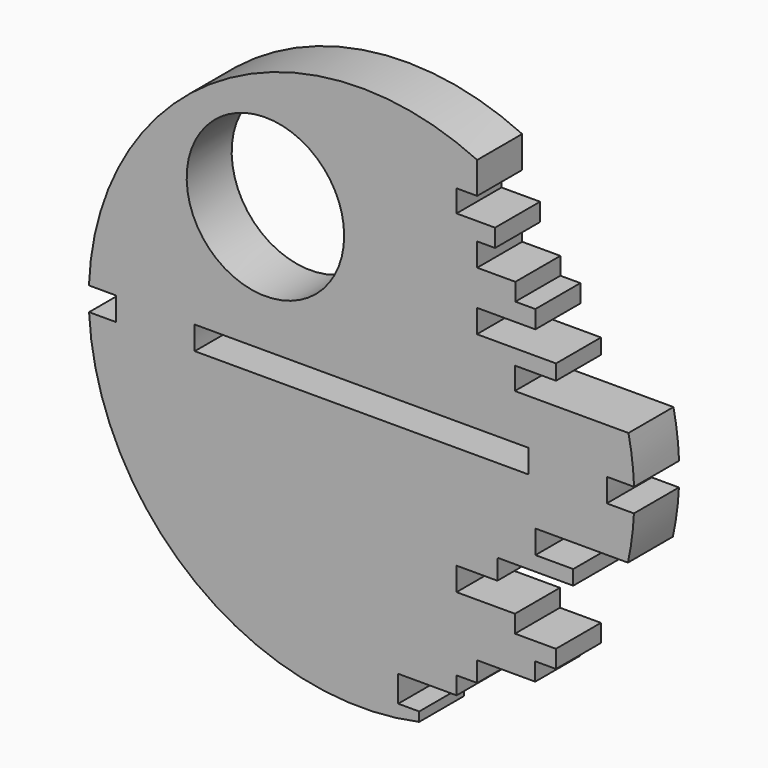
from build123d import *

# Parameters (mm, degrees)
F1_DEPTH = 5


with BuildPart() as f1:
    # F0 (on Front) → F1 (new body)
    with BuildSketch(Plane.XZ):
        with BuildLine():
            Line((-21.807785, -1.172308), (-24.221647, -1.172308))
            ThreePointArc((-24.221647, -1.172308), (-14.764985, -19.236884), (5.130451, -23.701075))
            Line((5.130451, -23.701075), (5.130451, -22.882067))
            Line((5.130451, -22.882067), (3.264538, -22.882067))
            Line((3.264538, -22.882067), (3.264538, -20.541335))
            Line((3.264538, -20.541335), (8.456405, -20.541335))
            Line((8.456405, -20.541335), (8.456405, -18.974984))
            Line((8.456405, -18.974984), (10.286748, -18.974984))
            Line((10.286748, -18.974984), (10.286748, -17.197439))
            Line((10.286748, -17.197439), (15.44636, -17.197439))
            Line((15.44636, -17.197439), (15.44636, -15.602398))
            Line((15.44636, -15.602398), (17.285462, -15.602398))
            Line((17.285462, -15.602398), (17.285462, -14.024785))
            Line((17.285462, -14.024785), (13.642496, -14.024785))
            Line((13.642496, -14.024785), (13.642496, -12.465751))
            Line((13.642496, -12.465751), (8.446803, -12.465751))
            Line((8.446803, -12.465751), (8.446803, -10.388738))
            Line((8.446803, -10.388738), (12.081455, -10.388738))
            Line((12.081455, -10.388738), (12.081455, -8.669803))
            Line((12.081455, -8.669803), (12.081455, -8.58615))
            Line((12.081455, -8.58615), (12.14105, -8.58615))
            Line((12.14105, -8.58615), (18.825023, -8.58615))
            Line((18.825023, -8.58615), (18.825023, -7.2836))
            Line((18.825023, -7.2836), (15.464293, -7.2836))
            Line((15.464293, -7.2836), (15.464293, -5.200631))
            Line((15.464293, -5.200631), (23.685775, -5.200631))
            ThreePointArc((23.685775, -5.200631), (24.038243, -3.197714), (24.221647, -1.172308))
            Line((24.221647, -1.172308), (21.807785, -1.172308))
            ThreePointArc((21.807785, -1.172308), (21.838886, -0.129742), (21.820174, 0.913119))
            Line((21.820174, 0.913119), (24.232802, 0.913119))
            ThreePointArc((24.232802, 0.913119), (24.070018, 2.949024), (23.736493, 4.96401))
            Line((23.736493, 4.96401), (13.632283, 4.96401))
            Line((13.632283, 4.96401), (13.632283, 6.956257))
            Line((13.632283, 6.956257), (17.293811, 6.956257))
            Line((17.293811, 6.956257), (17.293811, 8.313401))
            Line((17.293811, 8.313401), (10.260658, 8.313401))
            Line((10.260658, 8.313401), (10.260658, 10.381422))
            Line((10.260658, 10.381422), (15.457919, 10.381422))
            Line((15.457919, 10.381422), (15.457919, 11.972982))
            Line((15.457919, 11.972982), (13.678564, 11.972982))
            Line((13.678564, 11.972982), (13.678564, 13.525478))
            Line((13.678564, 13.525478), (10.285563, 13.525478))
            Line((10.285563, 13.525478), (10.285563, 15.58539))
            Line((10.285563, 15.58539), (11.87324, 15.58539))
            Line((11.87324, 15.58539), (11.87324, 17.176317))
            Line((11.87324, 17.176317), (8.44818, 17.176317))
            Line((8.44818, 17.176317), (8.44818, 19.14476))
            Line((8.44818, 19.14476), (10.285563, 19.14476))
            Line((10.285563, 19.14476), (10.285563, 21.96064))
            ThreePointArc((10.285563, 21.96064), (-12.624615, 20.704627), (-24.232802, 0.913119))
            Line((-24.232802, 0.913119), (-21.820174, 0.913119))
            ThreePointArc((-21.820174, 0.913119), (-21.838886, -0.129742), (-21.807785, -1.172308))
        make_face()
        with BuildLine():
            ThreePointArc((-14.82406, -1.172308), (-14.869774, -0.129914), (-14.84228, 0.913119))
            Line((-14.84228, 0.913119), (14.84228, 0.913119))
            ThreePointArc((14.84228, 0.913119), (14.869774, -0.129914), (14.82406, -1.172308))
            Line((14.82406, -1.172308), (-14.82406, -1.172308))
        make_face(mode=Mode.SUBTRACT)
        with BuildLine():
            ThreePointArc((-11.885257, 18.321967), (-4.965121, 18.18768), (-1.543241, 12.171281))
            ThreePointArc((-1.543241, 12.171281), (-11.41194, 5.786098), (-13.191973, 17.404759))
            ThreePointArc((-13.191973, 17.404759), (-12.564849, 17.900738), (-11.885257, 18.321967))
        make_face(mode=Mode.SUBTRACT)
        with BuildLine():
            Line((12.081455, -8.58615), (12.081455, -8.669803))
            ThreePointArc((12.081455, -8.669803), (12.111325, -8.628028), (12.14105, -8.58615))
            Line((12.14105, -8.58615), (12.081455, -8.58615))
        make_face()
    extrude(amount=F1_DEPTH)


solid = f1.part
